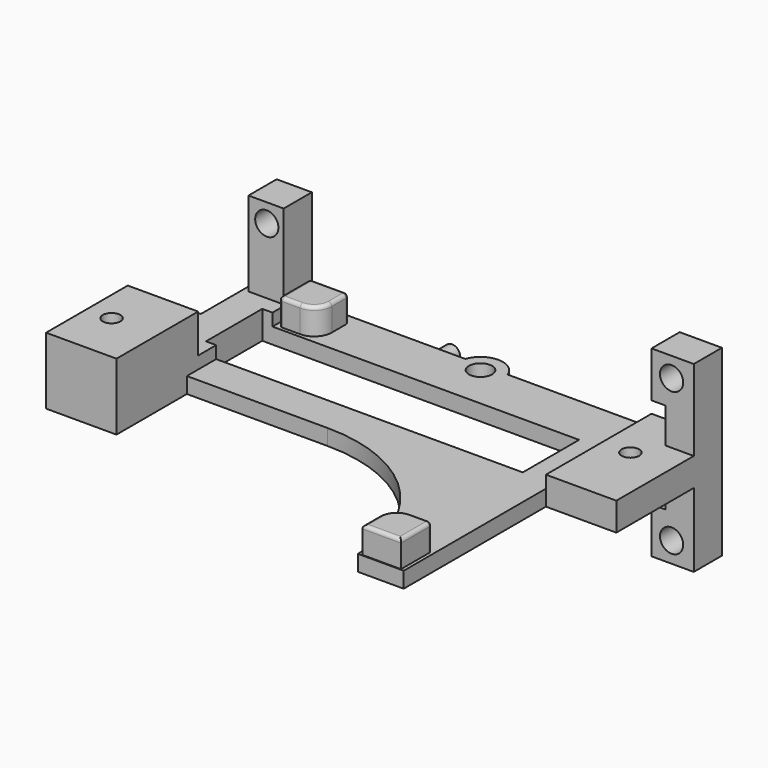
from build123d import *

# Parameters (mm, degrees)
SKETCH021_R      = 1.65
EXTRUDE021_DEPTH = 5
EXTRUDE001_DEPTH = 4
FILLET003_R      = 0.5
BOX005_W         = 48
BOX005_H         = 47
BOX005_DEPTH     = 10
EXTRUDE037_DEPTH = 6
SKETCH038_W      = 10
SKETCH038_H      = 14.5
SKETCH038_R      = 1.25
EXTRUDE038_DEPTH = 4
SKETCH039_W      = 5
SKETCH039_H      = 16
SKETCH039_R      = 1.65
EXTRUDE039_DEPTH = 5
EXTRUDE040_DEPTH = 3
SKETCH020_R      = 1.65
SKETCH020_R_2    = 1.25
SKETCH020_W      = 45
SKETCH020_H      = 10
EXTRUDE036_DEPTH = 4


with BuildPart() as gpshold:
    # Sketch021 → Extrude021 (new body)
    with BuildSketch(Plane.XZ):
        Polygon((65, 28.5), (71, 28.5), (71, 2.5), (65, 2.5), (65, 9), (67, 9), (67, 22), (65, 22), align=None)
        with Locations((67.85, 25.7)):
            Circle(SKETCH021_R, mode=Mode.SUBTRACT)
        with Locations((67.85, 5.4)):
            Circle(SKETCH021_R, mode=Mode.SUBTRACT)
    extrude(amount=EXTRUDE021_DEPTH)


with BuildPart() as gpshold_1:
    # Extrude021 placement: moved
    add(gpshold.part.moved(Location((0, 78.75, 0))))


with BuildPart() as obj1:
    # Sketch001 → Extrude001 (new body)
    with BuildSketch(Plane.XY):
        with BuildLine():
            Line((19.03, 74.44), (19.03, 77.44))
            Line((19.03, 77.44), (13.53, 77.44))
            Line((13.53, 71.94), (13.53, 77.44))
            Line((16.53, 71.94), (13.53, 71.94))
            ThreePointArc((16.53, 71.94), (18.297767, 72.672233), (19.03, 74.44))
        make_face()
        with BuildLine():
            Line((60.53, 34.86), (55.03, 34.86))
            Line((55.03, 34.86), (55.03, 37.86))
            ThreePointArc((57.53, 40.36), (55.762233, 39.627767), (55.03, 37.86))
            Line((60.53, 40.36), (57.53, 40.36))
            Line((60.53, 34.86), (60.53, 40.36))
        make_face()
    extrude(amount=EXTRUDE001_DEPTH)


with BuildPart() as obj1_1:
    # Extrude001 placement: moved
    add(obj1.part.moved(Location((0, 0, 2))))

    # Fillet003
    fillet003_edges = [obj1_1.edges().sort_by_distance(p)[0] for p in [
        (57.78, 34.86, 6),
        (55.03, 36.36, 6),
        (55.762233, 39.627767, 6),
        (60.53, 40.36, 4),
        (59.03, 40.36, 6),
        (60.53, 37.61, 6),
        (18.297767, 72.672233, 6),
        (19.03, 77.44, 4),
        (19.03, 75.94, 6),
        (13.53, 77.44, 4),
        (16.28, 77.44, 6),
        (13.53, 71.94, 4),
        (13.53, 74.69, 6),
        (15.03, 71.94, 6),
    ]]
    fillet(fillet003_edges, radius=FILLET003_R)


with BuildPart() as obj1_2:
    # Fillet003 placement: moved
    add(obj1_1.part.moved(Location((0, 0, 13))))


with BuildPart() as obj2:
    # Box005 → Box005 (new body)
    with BuildSketch(Plane(origin=(13, 34, 15.25), x_dir=(1, 0, 0), z_dir=(0, 0, 1))):
        with Locations((24, 23.5)):
            Rectangle(BOX005_W, BOX005_H)
    extrude(amount=BOX005_DEPTH)


with BuildPart() as obj3:
    # Sketch037 → Extrude037 (new body)
    with BuildSketch(Plane.XY.offset(17)):
        with BuildLine():
            Line((3, 58.25), (13, 58.25))
            Line((13, 58.25), (13, 43.75))
            Line((13, 43.75), (3, 43.75))
            Line((3, 43.75), (3, 45.75))
            Line((3, 45.75), (6.5, 45.75))
            ThreePointArc((6.5, 45.75), (11.75, 51), (6.5, 56.25))
            Line((3, 56.25), (6.5, 56.25))
            Line((3, 58.25), (3, 56.25))
        make_face()
    extrude(amount=EXTRUDE037_DEPTH)


with BuildPart() as obj3_1:
    # Extrude037 placement: moved
    add(obj3.part.moved(Location((0, 0, -4))))


with BuildPart() as obj4:
    # Sketch038 → Extrude038 (new body)
    with BuildSketch(Plane.XY.offset(17)):
        with Locations((8, 51)):
            Rectangle(SKETCH038_W, SKETCH038_H)
        with Locations((6.5, 51)):
            Circle(SKETCH038_R, mode=Mode.SUBTRACT)
    extrude(amount=EXTRUDE038_DEPTH)


with BuildPart() as obj4_1:
    # Extrude038 placement: moved
    add(obj4.part.moved(Location((0, 0, 1.5))))


with BuildPart() as obj5:
    # Sketch039 → Extrude039 (new body)
    with BuildSketch(Plane.XZ.offset(-78.75)):
        with Locations((10.25, 21)):
            Rectangle(SKETCH039_W, SKETCH039_H)
        with Locations((10.35, 26.35)):
            Circle(SKETCH039_R, mode=Mode.SUBTRACT)
    extrude(amount=EXTRUDE039_DEPTH)


with BuildPart() as obj6:
    # Sketch040 → Extrude040 (new body)
    with BuildSketch(Plane.XZ.offset(-78.75)):
        with BuildLine():
            ThreePointArc((11.321071, 13.05), (10.34, 14.8), (9.358929, 13.05))
            Line((9.358929, 13.05), (11.321071, 13.05))
        make_face()
        with BuildLine():
            ThreePointArc((31.651071, 13.05), (30.67, 14.8), (29.688929, 13.05))
            Line((29.688929, 13.05), (31.651071, 13.05))
        make_face()
    extrude(amount=EXTRUDE040_DEPTH)


with BuildPart() as obj6_1:
    # Extrude040 placement: moved
    add(obj6.part.moved(Location((0, 2.5, 0))))


with BuildPart() as sensorhold005:
    # Sketch020 → Extrude036 (new body)
    with BuildSketch(Plane.XY):
        with BuildLine():
            Line((71, 78.75), (71, 60))
            Line((61, 60), (71, 60))
            Line((61, 34.75), (61, 60))
            Line((61, 34.75), (61, 60))
            Line((61, 34.75), (61, 60))
            Line((54.5, 34.75), (61, 34.75))
            ThreePointArc((54.5, 34.75), (48.202796, 49.952796), (33, 56.25))
            Line((3, 56.25), (33, 56.25))
            Line((3, 56.25), (3, 66.25))
            Line((3, 66.25), (7, 66.25))
            Line((7, 66.25), (7, 78.75))
            Line((7, 78.75), (34.55, 78.75))
            ThreePointArc((40.55, 78.75), (37.55, 80.878443), (34.55, 78.75))
            Line((40.55, 78.75), (71, 78.75))
        make_face()
        with Locations((5.55, 61.45)):
            Circle(SKETCH020_R, mode=Mode.SUBTRACT)
        with Locations((37.55, 77.7)):
            Circle(SKETCH020_R, mode=Mode.SUBTRACT)
        with Locations((65, 70)):
            Circle(SKETCH020_R_2, mode=Mode.SUBTRACT)
        with Locations((34.05, 66.45)):
            Rectangle(SKETCH020_W, SKETCH020_H, mode=Mode.SUBTRACT)
    extrude(amount=EXTRUDE036_DEPTH)


with BuildPart() as sensorhold005_1:
    # Extrude036 placement: moved
    add(sensorhold005.part.moved(Location((0, 0, 13))))

    # Fusion034: union obj3, obj4, obj5, obj6
    add(obj3_1.part)
    add(obj4_1.part)
    add(obj5.part)
    add(obj6_1.part)

    # Cut016: cut obj2
    add(obj2.part, mode=Mode.SUBTRACT)

    # Fusion035: union obj1
    add(obj1_2.part)

    # Fusion036: union gpsHold
    add(gpshold_1.part)


solid = sensorhold005_1.part
